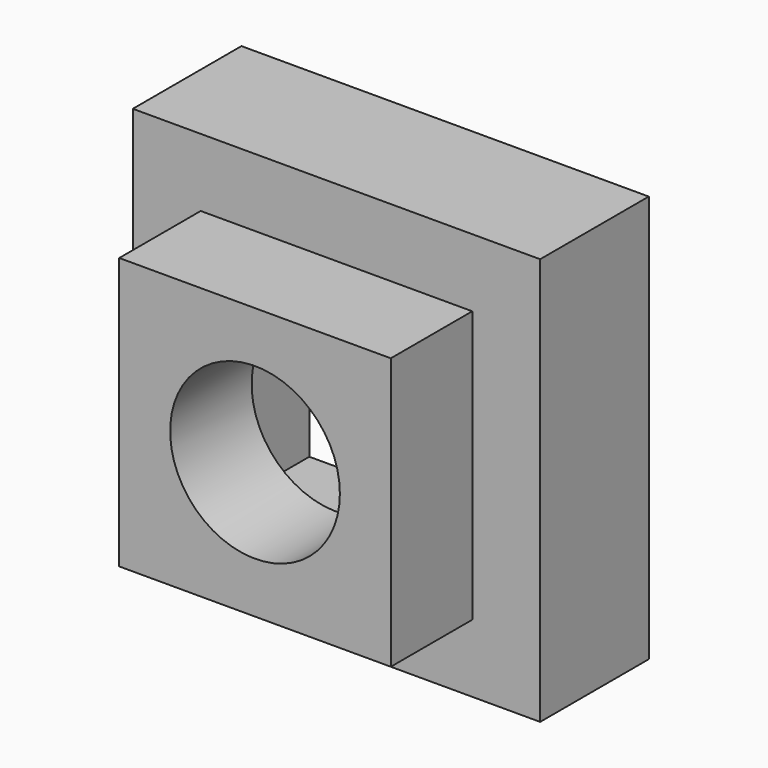
from build123d import *

# Parameters (mm, degrees)
F0_W     = 101.6
F0_H     = 101.6
F0_R     = 31.75
F1_DEPTH = 38.1
F0_W_2   = 152.4
F0_H_2   = 152.4
F2_DEPTH = 50.8


with BuildPart() as f1:
    # F0 (on Front) → F1 (new body)
    with BuildSketch(Plane.XZ):
        Rectangle(F0_W, F0_H)
        Circle(F0_R, mode=Mode.SUBTRACT)
    extrude(amount=F1_DEPTH)

    # F0 (on Front) → F2 (join)
    with BuildSketch(Plane.XZ):
        Rectangle(F0_W_2, F0_H_2)
        Rectangle(F0_W, F0_H, mode=Mode.SUBTRACT)
    extrude(amount=-F2_DEPTH)


solid = f1.part
